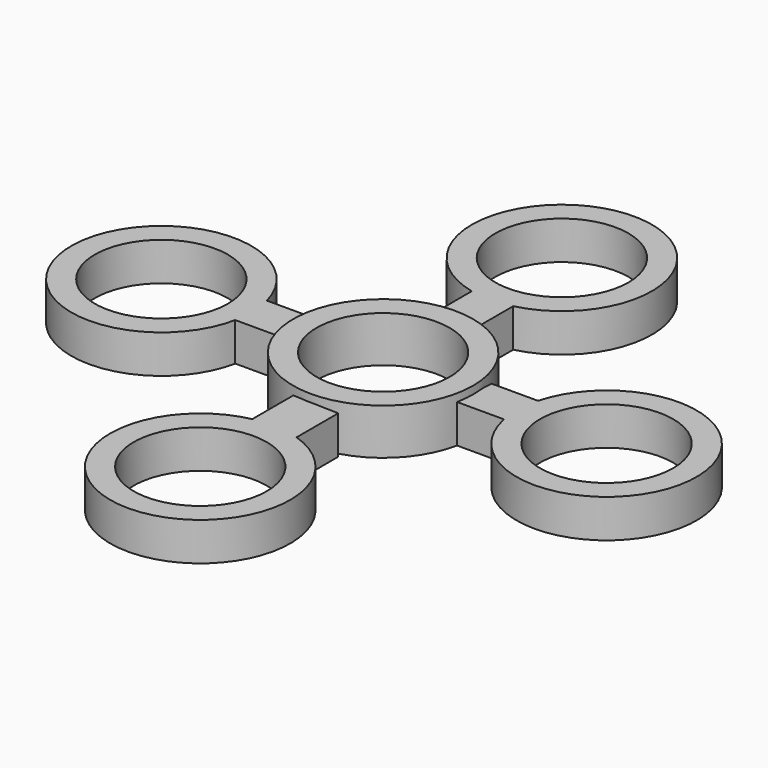
from build123d import *

# Parameters (mm, degrees)
F0_R      = 14.9225
F1_DEPTH  = 7.62
F2_R      = 11.0236
F3_DEPTH  = 25.4
F5_DEPTH  = 6.35
F6_R      = 14.9225
F7_DEPTH  = 6.35
F8_R      = 11.0236
F9_DEPTH  = 25.4
F10_R     = 11.0236
F11_DEPTH = 25.4
F12_R     = 11.0236
F13_DEPTH = 25.4
F14_R     = 11.0236
F15_DEPTH = 25.4


with BuildPart() as f1:
    # F0 (on Top) → F1 (new body)
    with BuildSketch(Plane.XY):
        Circle(F0_R)
    extrude(amount=F1_DEPTH)

    # F2 (on face) → F3 (cut)
    with BuildSketch(Plane.XY.offset(7.62)):
        Circle(F2_R)
    extrude(amount=-F3_DEPTH, mode=Mode.SUBTRACT)

    # F4 (on Top) → F5 (join)
    with BuildSketch(Plane.XY):
        Polygon((23.40718, 3.830266), (14.89548, 3.830266), (14.611755, -2.979096), (23.40718, -2.979096), align=None)
        Polygon((-3.275654, 23.123458), (-3.275654, 14.611758), (3.533708, 14.328033), (3.533708, 23.123458), align=None)
        Polygon((-14.23008, 3.830266), (-22.74178, 3.830266), (-23.025505, -2.979096), (-14.23008, -2.979096), align=None)
        Polygon((4.597669, -23.888158), (4.597669, -15.057278), (-3.062862, -14.773545), (-3.062862, -23.888158), align=None)
    extrude(amount=F5_DEPTH)

    # F6 (on Top) → F7 (join)
    with BuildSketch(Plane.XY):
        with Locations((37.025906, 0)):
            Circle(F6_R)
        with Locations((0, 37.025906)):
            Circle(F6_R)
        with Locations((-36.742181, 0)):
            Circle(F6_R)
        with Locations((0, -37.877075)):
            Circle(F6_R)
    extrude(amount=F7_DEPTH)

    # F8 (on face) → F9 (cut)
    with BuildSketch(Plane.XY.offset(6.35)):
        with Locations((-36.742181, 0)):
            Circle(F8_R)
    extrude(amount=-F9_DEPTH, mode=Mode.SUBTRACT)

    # F10 (on face) → F11 (cut)
    with BuildSketch(Plane.XY.offset(6.35)):
        with Locations((0, 37.025906)):
            Circle(F10_R)
    extrude(amount=-F11_DEPTH, mode=Mode.SUBTRACT)

    # F12 (on face) → F13 (cut)
    with BuildSketch(Plane.XY.offset(6.35)):
        with Locations((37.025906, 0)):
            Circle(F12_R)
    extrude(amount=-F13_DEPTH, mode=Mode.SUBTRACT)

    # F14 (on face) → F15 (cut)
    with BuildSketch(Plane.XY.offset(6.35)):
        with Locations((0, -37.877075)):
            Circle(F14_R)
    extrude(amount=-F15_DEPTH, mode=Mode.SUBTRACT)


solid = f1.part
